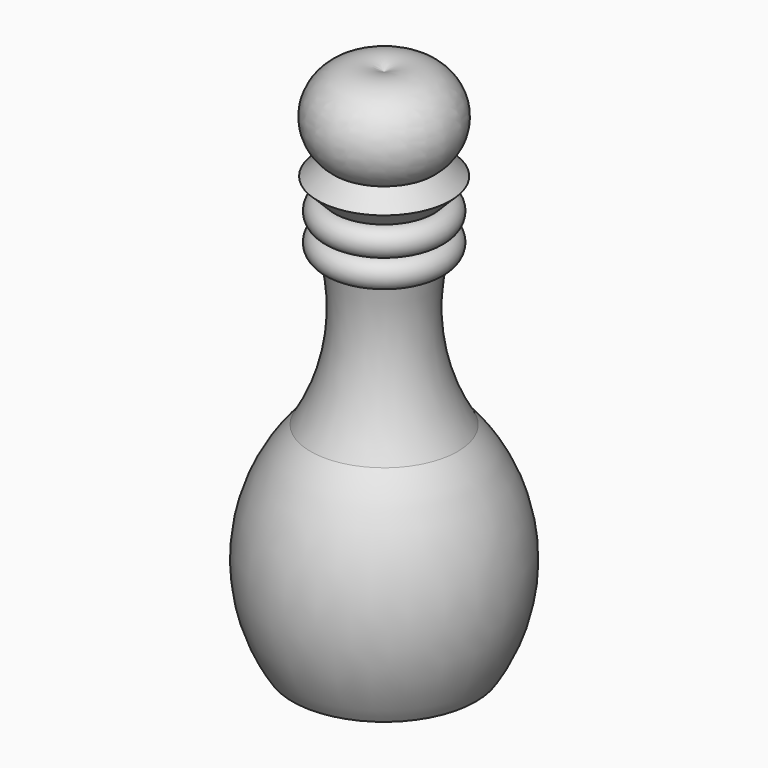
from build123d import *


with BuildPart() as f1:
    # F0 (on Front) → F1 (revolve)
    with BuildSketch(Plane.XZ):
        with BuildLine():
            ThreePointArc((9, -13.567979), (10.782796, -2.616445), (0, 0))
            Line((0, 0), (0, -95))
            Line((0, -95), (16.620528, -95))
            ThreePointArc((16.620528, -95), (21.695841, -75.026956), (13.323804, -56.196388))
            ThreePointArc((13.323804, -56.196388), (8.586608, -43.342185), (9, -29.649097))
            ThreePointArc((9, -29.649097), (11.5, -27.149097), (9, -24.649097))
            ThreePointArc((9, -24.649097), (11.5, -22.149097), (9, -19.649097))
            Line((9, -19.649097), (12.040559, -16.608538))
            Line((12.040559, -16.608538), (9, -13.567979))
        make_face()
    revolve(axis=Axis((0, 0, -47.5), (0, 0, -1)))


solid = f1.part
